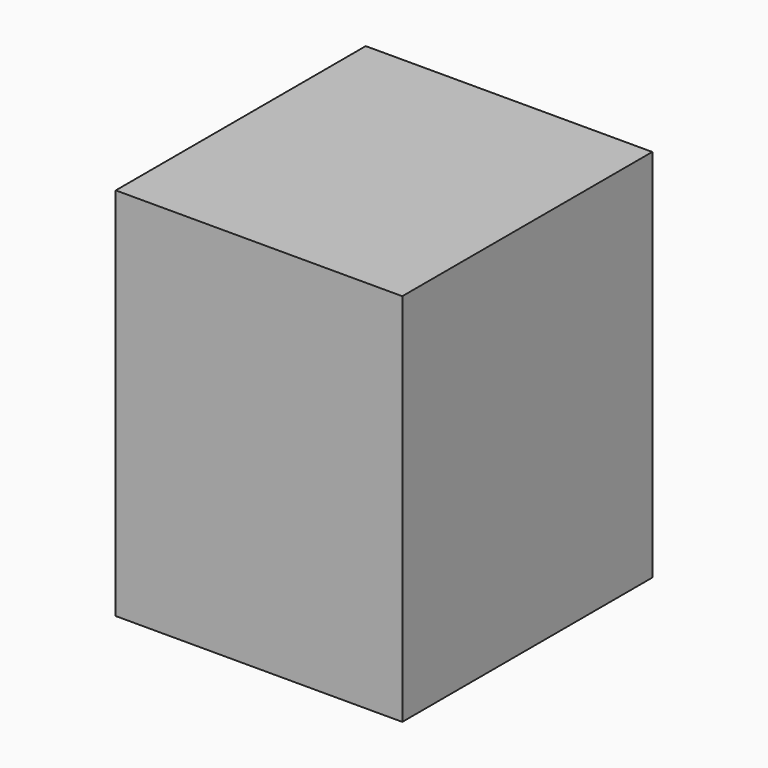
from build123d import *

# Parameters (mm, degrees)
F0_W     = 97.0965474844
F0_H     = 105.8883592486
F1_DEPTH = 50.8
F2_W     = 97.0965474844
F2_H     = 105.8883592486
F3_DEPTH = 76.2
F4_DEPTH = 50.8


with BuildPart() as f1:
    # F0 (on Top) → F1 (new body)
    with BuildSketch(Plane.XY):
        with Locations((5.2505135536, 5.4748691618)):
            Rectangle(F0_W, F0_H)
    extrude(amount=F1_DEPTH)

    # F2 (on face) → F3 (join)
    with BuildSketch(Plane.XY.offset(50.8)):
        with Locations((5.2505135536, 5.4748691618)):
            Rectangle(F2_W, F2_H)
    extrude(amount=F3_DEPTH)

    # F4 (add): a face of the model
    f4_faces = [f1.faces().sort_by_distance(p)[0] for p in [
        (5.2505135536, -47.4693104625, 63.5),
    ]]
    extrude(f4_faces, amount=-F4_DEPTH)


solid = f1.part
